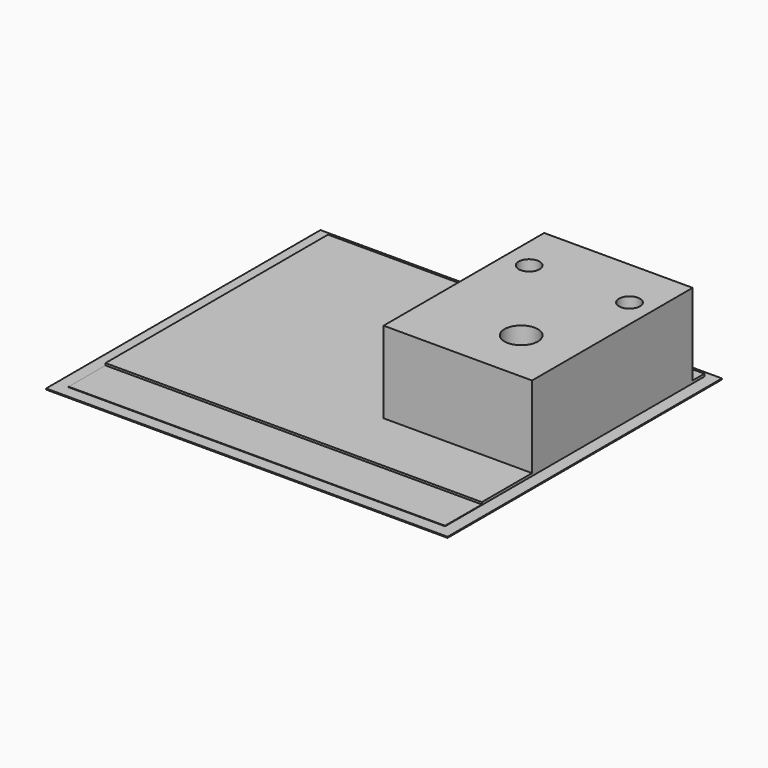
from build123d import *

# Parameters (mm, degrees)
F0_W     = 609.6
F0_H     = 520.7
F0_R     = 25.4
F0_R_2   = 15.875
F1_DEPTH = 1.58242
F2_W     = 571.5
F2_H     = 492.125
F2_R     = 25.4
F2_R_2   = 15.875
F3_DEPTH = 0.79375
F4_W     = 571.5
F4_H     = 422.275
F4_R     = 25.4
F4_R_2   = 15.875
F5_DEPTH = 3.175
F6_W     = 225.425
F6_H     = 304.8
F6_R     = 25.4
F6_R_2   = 15.875
F7_DEPTH = 127


with BuildPart() as f1:
    # F0 (on Top) → F1 (new body)
    with BuildSketch(Plane.XY):
        with Locations((304.8, 260.35)):
            Rectangle(F0_W, F0_H)
        with Locations((508, 266.7)):
            Circle(F0_R, mode=Mode.SUBTRACT)
        with Locations((403.225, 412.75)):
            Circle(F0_R_2, mode=Mode.SUBTRACT)
        with Locations((555.625, 412.75)):
            Circle(F0_R_2, mode=Mode.SUBTRACT)
    extrude(amount=F1_DEPTH)

    # F2 (on face) → F3 (join)
    with BuildSketch(Plane.XY.offset(1.58242)):
        with Locations((304.8, 265.1125)):
            Rectangle(F2_W, F2_H)
        with Locations((508, 266.7)):
            Circle(F2_R, mode=Mode.SUBTRACT)
        with Locations((403.225, 412.75)):
            Circle(F2_R_2, mode=Mode.SUBTRACT)
        with Locations((555.625, 412.75)):
            Circle(F2_R_2, mode=Mode.SUBTRACT)
    extrude(amount=F3_DEPTH)

    # F4 (on face) → F5 (join)
    with BuildSketch(Plane.XY.offset(2.37617)):
        with Locations((304.8, 300.0375)):
            Rectangle(F4_W, F4_H)
        with Locations((508, 266.7)):
            Circle(F4_R, mode=Mode.SUBTRACT)
        with Locations((403.225, 412.75)):
            Circle(F4_R_2, mode=Mode.SUBTRACT)
        with Locations((555.625, 412.75)):
            Circle(F4_R_2, mode=Mode.SUBTRACT)
    extrude(amount=F5_DEPTH)

    # F6 (on face) → F7 (join)
    with BuildSketch(Plane.XY.offset(2.37617)):
        with Locations((477.8375, 336.55)):
            Rectangle(F6_W, F6_H)
        with Locations((508, 266.7)):
            Circle(F6_R, mode=Mode.SUBTRACT)
        with Locations((403.225, 412.75)):
            Circle(F6_R_2, mode=Mode.SUBTRACT)
        with Locations((555.625, 412.75)):
            Circle(F6_R_2, mode=Mode.SUBTRACT)
    extrude(amount=F7_DEPTH)


solid = f1.part
